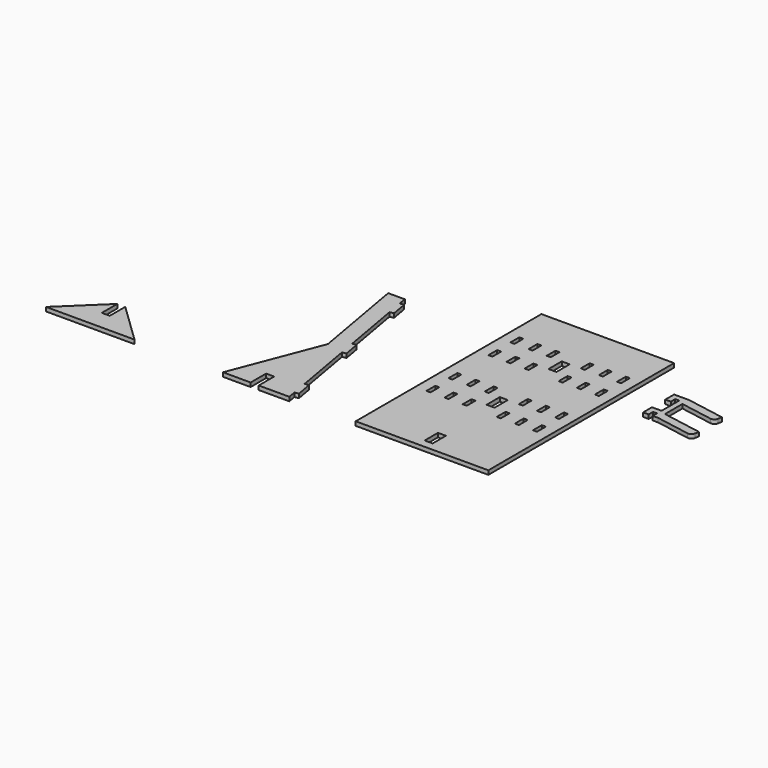
from build123d import *

# Parameters (mm, degrees)
F0_W     = 609.6
F0_H     = 1066.8
F0_W_2   = 36.576
F0_H_2   = 76.2
F0_W_3   = 18.542
F0_H_3   = 50.8
F0_H_4   = 25.4
F1_DEPTH = 18.542


with BuildPart() as f1:
    # F0 (on Top) → F1 (new body)
    with BuildSketch(Plane.XY):
        Polygon((156.940715, 406.4), (0, 0), (127, 0), (127, 88.9), (164.084, 88.9), (164.084, 0), (304.8, 0), (298.184004, 37.521175), (284.952013, 112.563526), (236.434712, 387.718812), (223.202721, 462.761163), (174.68542, 737.916449), (161.453429, 812.9588), (154.837434, 850.479976), (78.637434, 850.479976), align=None)
        Polygon((179.713735, 816.178585), (161.453429, 812.9588), (174.68542, 737.916449), (192.945726, 741.136234), align=None)
        Polygon((241.463027, 465.980948), (223.202721, 462.761163), (236.434712, 387.718812), (254.695018, 390.938597), align=None)
        Polygon((284.952013, 112.563526), (298.184004, 37.521175), (316.44431, 40.74096), (303.212319, 115.783311), align=None)
        with Locations((914.4, 533.4)):
            Rectangle(F0_W, F0_H)
        with Locations((914.4, 76.2)):
            Rectangle(F0_W_2, F0_H_2, mode=Mode.SUBTRACT)
        with Locations((669.671, 368.3)):
            Rectangle(F0_W_3, F0_H_3, mode=Mode.SUBTRACT)
        with Locations((752.856, 368.3)):
            Rectangle(F0_W_3, F0_H_3, mode=Mode.SUBTRACT)
        with Locations((836.041, 368.3)):
            Rectangle(F0_W_3, F0_H_3, mode=Mode.SUBTRACT)
        with Locations((992.759, 368.3)):
            Rectangle(F0_W_3, F0_H_3, mode=Mode.SUBTRACT)
        with Locations((669.671, 495.3)):
            Rectangle(F0_W_3, F0_H_3, mode=Mode.SUBTRACT)
        with Locations((914.4, 431.8)):
            Rectangle(F0_W_2, F0_H_2, mode=Mode.SUBTRACT)
        with Locations((752.856, 495.3)):
            Rectangle(F0_W_3, F0_H_3, mode=Mode.SUBTRACT)
        with Locations((836.041, 495.3)):
            Rectangle(F0_W_3, F0_H_3, mode=Mode.SUBTRACT)
        with Locations((992.759, 495.3)):
            Rectangle(F0_W_3, F0_H_3, mode=Mode.SUBTRACT)
        with Locations((1075.944, 368.3)):
            Rectangle(F0_W_3, F0_H_3, mode=Mode.SUBTRACT)
        with Locations((1159.129, 368.3)):
            Rectangle(F0_W_3, F0_H_3, mode=Mode.SUBTRACT)
        with Locations((1075.944, 495.3)):
            Rectangle(F0_W_3, F0_H_3, mode=Mode.SUBTRACT)
        with Locations((1159.129, 495.3)):
            Rectangle(F0_W_3, F0_H_3, mode=Mode.SUBTRACT)
        with Locations((669.671, 723.9)):
            Rectangle(F0_W_3, F0_H_3, mode=Mode.SUBTRACT)
        with Locations((752.856, 723.9)):
            Rectangle(F0_W_3, F0_H_3, mode=Mode.SUBTRACT)
        with Locations((836.041, 723.9)):
            Rectangle(F0_W_3, F0_H_3, mode=Mode.SUBTRACT)
        with Locations((992.759, 723.9)):
            Rectangle(F0_W_3, F0_H_3, mode=Mode.SUBTRACT)
        with Locations((914.4, 787.4)):
            Rectangle(F0_W_2, F0_H_2, mode=Mode.SUBTRACT)
        with Locations((1075.944, 723.9)):
            Rectangle(F0_W_3, F0_H_3, mode=Mode.SUBTRACT)
        with Locations((1159.129, 723.9)):
            Rectangle(F0_W_3, F0_H_3, mode=Mode.SUBTRACT)
        with Locations((669.671, 850.9)):
            Rectangle(F0_W_3, F0_H_3, mode=Mode.SUBTRACT)
        with Locations((752.856, 850.9)):
            Rectangle(F0_W_3, F0_H_3, mode=Mode.SUBTRACT)
        with Locations((836.041, 850.9)):
            Rectangle(F0_W_3, F0_H_3, mode=Mode.SUBTRACT)
        with Locations((992.759, 850.9)):
            Rectangle(F0_W_3, F0_H_3, mode=Mode.SUBTRACT)
        with Locations((1075.944, 850.9)):
            Rectangle(F0_W_3, F0_H_3, mode=Mode.SUBTRACT)
        with Locations((1159.129, 850.9)):
            Rectangle(F0_W_3, F0_H_3, mode=Mode.SUBTRACT)
        with BuildLine():
            Line((1616.040818, 845.425354), (1440.942, 876.3))
            Line((1440.942, 876.3), (1440.942, 837.612246))
            Line((1440.942, 837.612246), (1590.664235, 811.212176))
            ThreePointArc((1590.664235, 811.212176), (1604.898864, 814.367918), (1612.732821, 826.664766))
            Line((1612.732821, 826.664766), (1616.040818, 845.425354))
        make_face()
        Polygon((1415.542, 876.3), (1415.542, 850.9), (1415.542, 749.3), (1415.542, 723.9), (1415.542, 698.5), (1440.942, 698.5), (1440.942, 737.187754), (1440.942, 837.612246), (1440.942, 876.3), align=None)
        with Locations((1406.271, 863.6)):
            Rectangle(F0_W_3, F0_H_4)
        Polygon((1371.6, 876.3), (1371.6, 825.5), (1397, 825.5), (1397, 850.9), (1397, 876.3), align=None)
        Polygon((1397, 723.9), (1397, 749.3), (1371.6, 749.3), (1371.6, 698.5), (1397, 698.5), align=None)
        with Locations((1406.271, 736.6)):
            Rectangle(F0_W_3, F0_H_4)
        with BuildLine():
            Line((1622.656814, 705.146529), (1440.942, 737.187754))
            Line((1440.942, 737.187754), (1440.942, 698.5))
            Line((1440.942, 698.5), (1597.280231, 670.933352))
            ThreePointArc((1597.280231, 670.933352), (1611.51486, 674.089093), (1619.348816, 686.385942))
            Line((1619.348816, 686.385942), (1622.656814, 705.146529))
        make_face()
        Polygon((-812.8, 0), (-406.4, 0), (-591.312, 177.8), (-591.312, 88.9), (-627.888, 88.9), (-627.888, 177.8), align=None)
    extrude(amount=F1_DEPTH)


solid = f1.part
